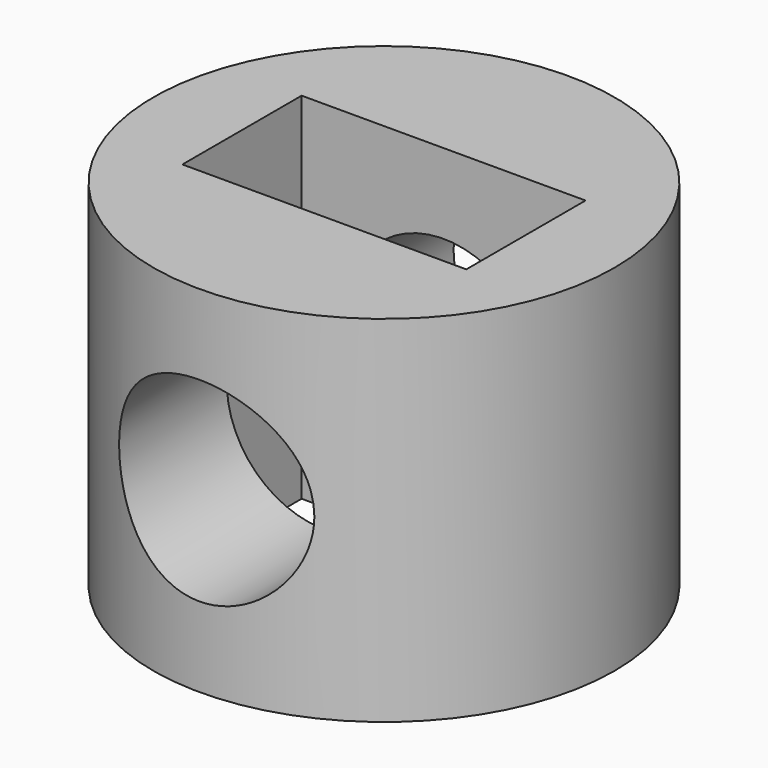
from build123d import *

# Parameters (mm, degrees)
SKETCH_R             = 6.5
PAD_DEPTH            = 10
SKETCH001_W          = 8
SKETCH001_H          = 4.2
POCKET_DEPTH         = 10.001
SKETCH002_R          = 2.75
POCKET001_DEPTH      = 6.501
POCKET001_DEPTH_BACK = -6.501


with BuildPart() as part:
    # Sketch → Pad (new body)
    with BuildSketch(Plane.XY):
        Circle(SKETCH_R)
    extrude(amount=PAD_DEPTH)

    # Sketch001 (on Face3 of Pad) → Pocket (cut, through all)
    with BuildSketch(Plane.XY.offset(10)):
        Rectangle(SKETCH001_W, SKETCH001_H)
    extrude(amount=-POCKET_DEPTH, mode=Mode.SUBTRACT)

    # Sketch002 → Pocket001 (cut, two sides)
    with BuildSketch(Plane.XZ) as pocket001_sk:
        with Locations((0, 5)):
            Circle(SKETCH002_R)
    extrude(amount=-POCKET001_DEPTH, mode=Mode.SUBTRACT)
    extrude(pocket001_sk.sketch, amount=-POCKET001_DEPTH_BACK, mode=Mode.SUBTRACT)


solid = part.part
